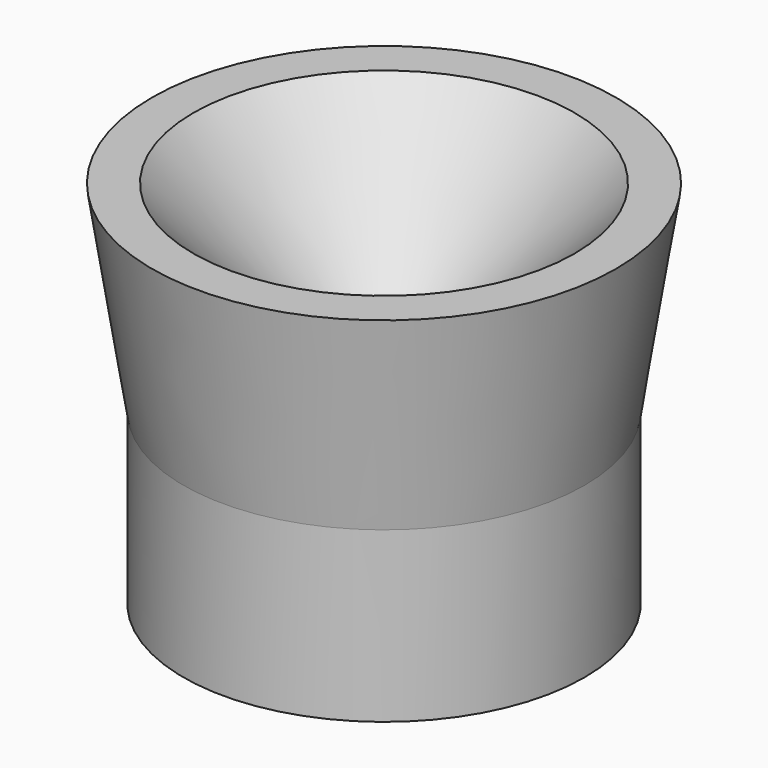
from build123d import *

# Parameters (mm, degrees)
FILLET_R = 2.54


with BuildPart() as part:
    # Sketch → Revolution (revolve)
    with BuildSketch(Plane.XZ):
        Polygon((6.096, 0), (6.096, -6.477), (7.6835, -6.477), (7.6835, 0), (8.89, 7.6962), (7.3025, 7.6962), (1.5875, 1.5875), (1.5875, 0), align=None)
    revolve(axis=Axis((0, 0, 0), (0, 0, 1)))

    # Fillet
    fillet_edges = [part.edges().sort_by_distance(p)[0] for p in [
        (-1.5875, 0, 1.5875),
    ]]
    fillet(fillet_edges, radius=FILLET_R)


solid = part.part
